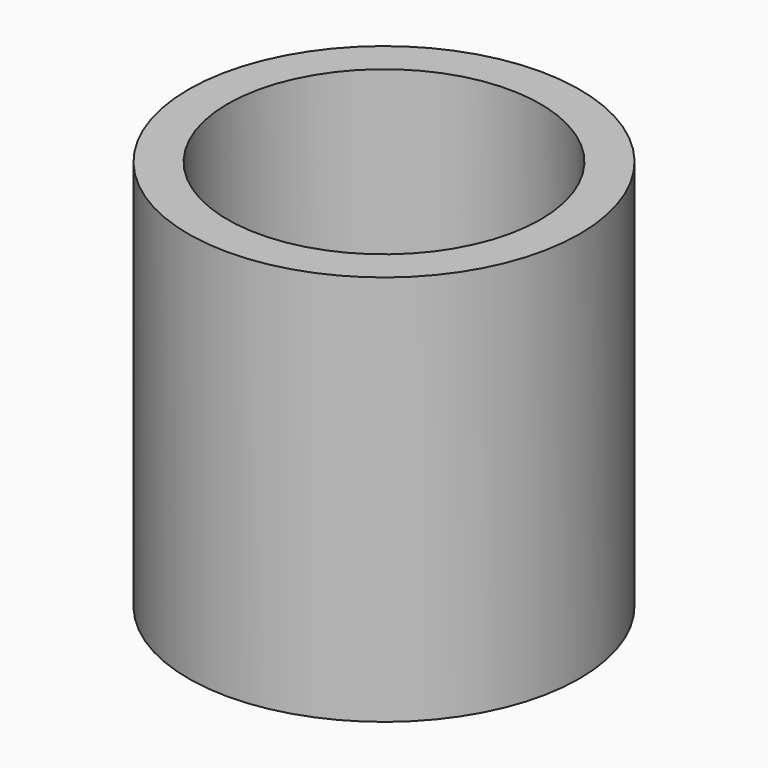
from build123d import *

# Parameters (mm, degrees)
SKETCH_R     = 5
PAD_DEPTH    = 10
SKETCH001_R  = 4
POCKET_DEPTH = 8


with BuildPart() as part:
    # Sketch → Pad (new body)
    with BuildSketch(Plane.XY):
        Circle(SKETCH_R)
    extrude(amount=PAD_DEPTH)

    # Sketch001 (on Face3 of Pad) → Pocket (cut)
    with BuildSketch(Plane.XY.offset(10)):
        Circle(SKETCH001_R)
    extrude(amount=-POCKET_DEPTH, mode=Mode.SUBTRACT)


solid = part.part
